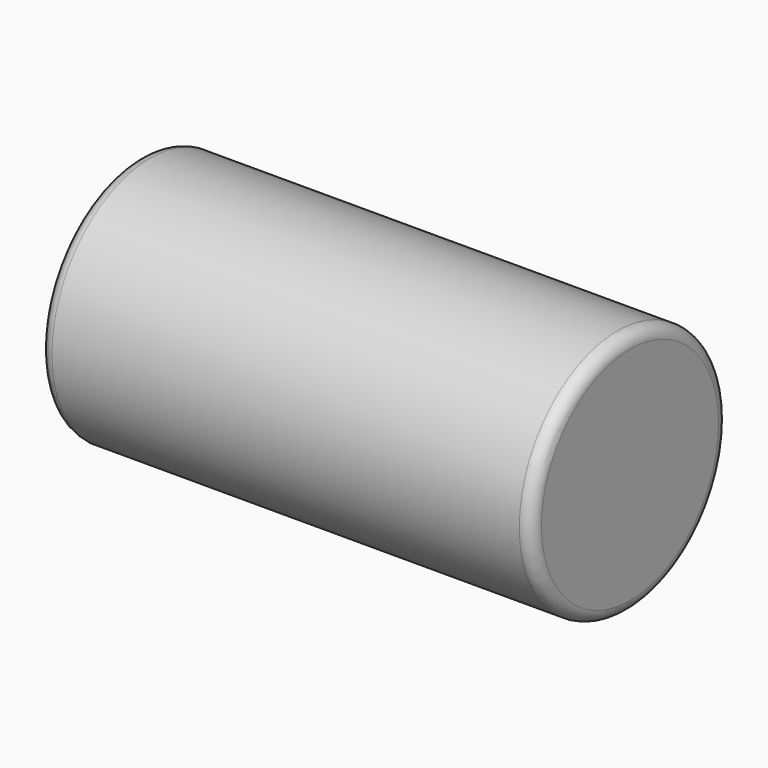
from build123d import *

# Parameters (mm, degrees)
F0_R     = 5
F1_DEPTH = 20
F2_R     = 0.5


with BuildPart() as f1:
    # F0 (on Right) → F1 (new body)
    with BuildSketch(Plane.YZ):
        Circle(F0_R)
        Circle(F0_R)
    extrude(amount=F1_DEPTH)

    # F2
    f2_edges = [f1.edges().sort_by_distance(p)[0] for p in [
        (20, -5, 0),
        (0, -5, 0),
    ]]
    fillet(f2_edges, radius=F2_R)


solid = f1.part
